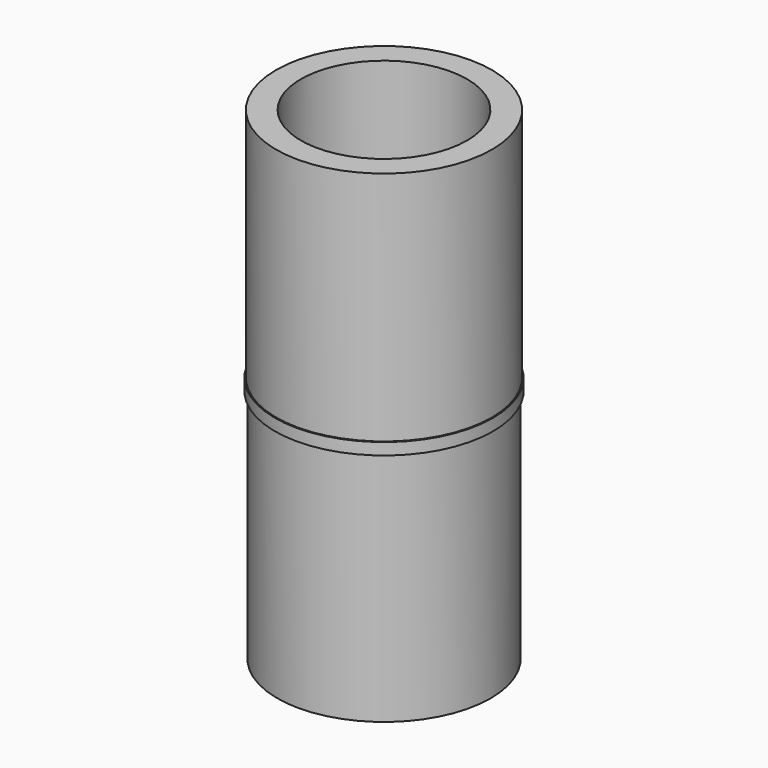
from build123d import *

# Parameters (mm, degrees)
F0_R     = 9.25
F1_DEPTH = 1
F2_R     = 9.15
F3_DEPTH = 20
F4_R     = 9.05
F5_DEPTH = 20
F6_R     = 7.05
F7_DEPTH = 41.001


with BuildPart() as f1:
    # F0 (on Top) → F1 (new body)
    with BuildSketch(Plane.XY):
        Circle(F0_R)
    extrude(amount=F1_DEPTH)

    # F2 (on face) → F3 (join)
    with BuildSketch(Plane.XY.offset(1)):
        Circle(F2_R)
    extrude(amount=F3_DEPTH)

    # F4 (on face) → F5 (join)
    with BuildSketch(Plane(origin=(0, 0, 0), x_dir=(1, 0, 0), z_dir=(0, 0, -1))):
        Circle(F4_R)
    extrude(amount=F5_DEPTH)

    # F6 (on face) → F7 (cut, through all)
    with BuildSketch(Plane(origin=(0, 0, -20), x_dir=(1, 0, 0), z_dir=(0, 0, -1))):
        Circle(F6_R)
    extrude(amount=-F7_DEPTH, mode=Mode.SUBTRACT)


solid = f1.part
